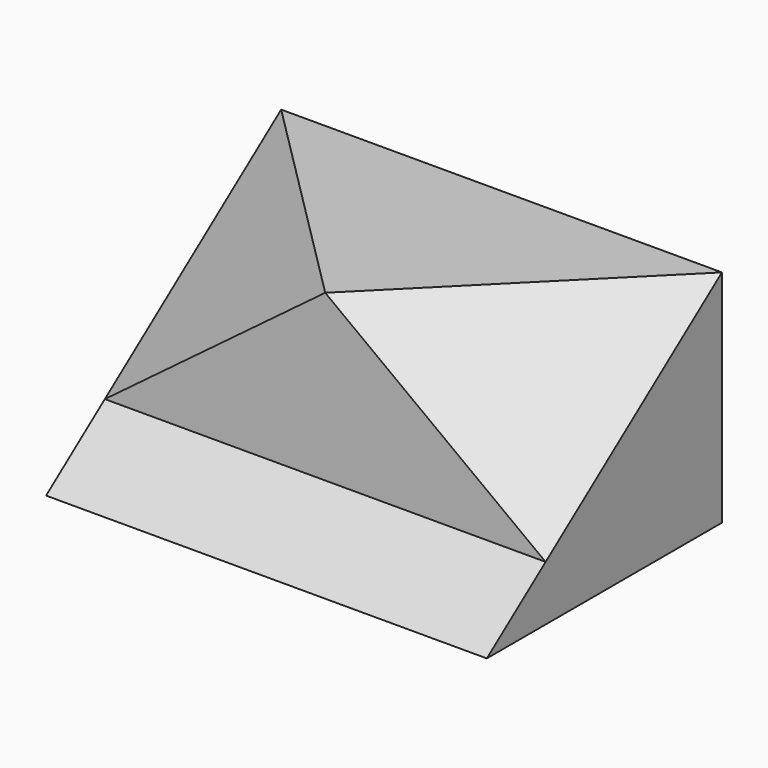
from build123d import *

# Parameters (mm, degrees)
F1_DEPTH  = 6
F3_DEPTH  = 6
F8_DEPTH  = 25
F11_DEPTH = 25


with BuildPart() as f1:
    # F0 (on Right) → F1 (new body)
    with BuildSketch(Plane.YZ):
        Polygon((4, 3), (0, 0), (4, 0), align=None)
    extrude(amount=F1_DEPTH)

    # F2 (on face) → F3 (join)
    with BuildSketch(Plane.YZ.offset(6)):
        Polygon((1, 0.75), (4, 3), (1, 3), align=None)
    extrude(amount=-F3_DEPTH)

    # F7 (on 3pt) → F8 (cut)
    with BuildSketch(Plane(origin=(1.5882352941, -1.5882352941, 2.1176470588), x_dir=(0.8574929257, 0.3086974533, -0.4115966043), z_dir=(0.5144957554, -0.5144957554, 0.6859943406))):
        Polygon((5.1449575543, 1.25), (5.1449575543, 5), (1.6463864174, 2.6), align=None)
    extrude(amount=F8_DEPTH, mode=Mode.SUBTRACT)

    # F10 (on 3pt) → F11 (cut)
    with BuildSketch(Plane(origin=(0, 0, 0), x_dir=(0.8574929257, -0.3086974533, 0.4115966043), z_dir=(0.5144957554, 0.5144957554, -0.6859943406))):
        Polygon((0, -1.25), (0, -5), (3.4985711369, -2.6), align=None)
    extrude(amount=-F11_DEPTH, mode=Mode.SUBTRACT)


solid = f1.part
